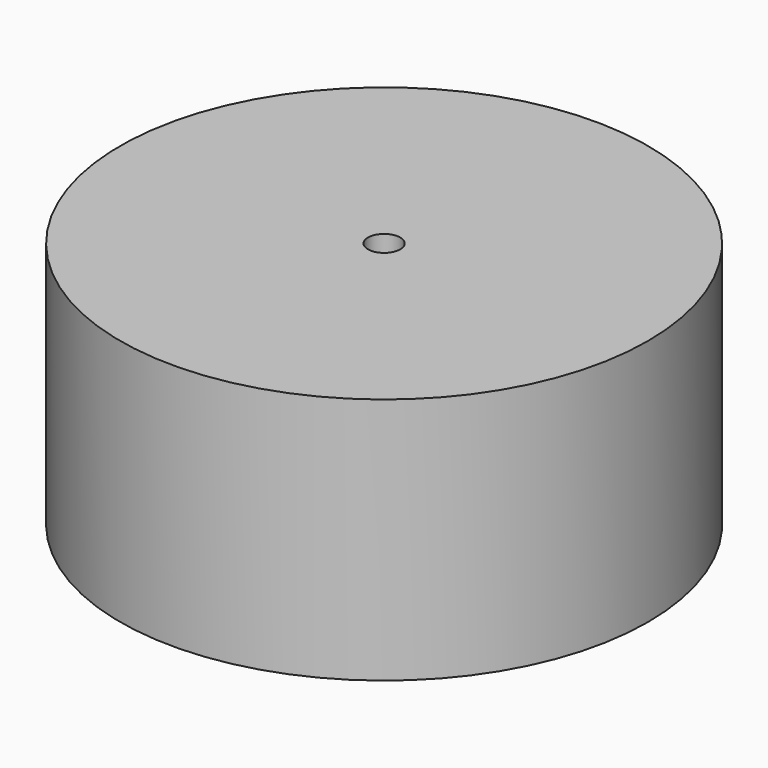
from build123d import *

# Parameters (mm, degrees)
CYLINDER_R     = 3.9
CYLINDER_DEPTH = 60
SKETCH_R       = 64
PAD_DEPTH      = 60


with BuildPart() as cylinder:
    # Cylinder → Cylinder (new body)
    with BuildSketch(Plane.XY):
        Circle(CYLINDER_R)
    extrude(amount=CYLINDER_DEPTH)


with BuildPart() as cut:
    # Sketch → Pad (new body)
    with BuildSketch(Plane.XY):
        Circle(SKETCH_R)
    extrude(amount=PAD_DEPTH)

    # Cut: cut Cylinder
    add(cylinder.part, mode=Mode.SUBTRACT)


with BuildPart() as cut_1:
    # Cut placement: moved
    add(cut.part.moved(Location((-90, -440, 0))))


solid = cut_1.part
